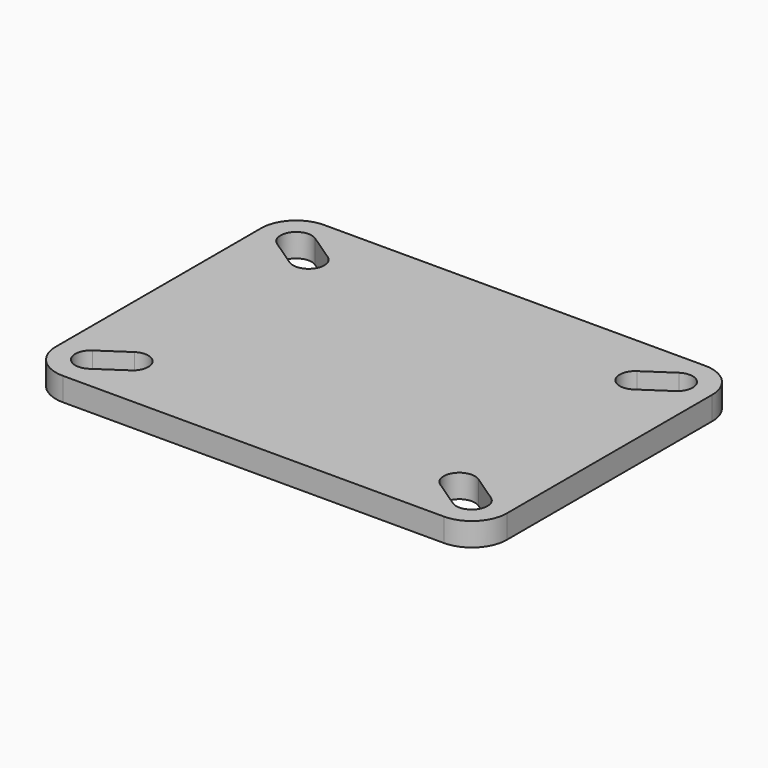
from build123d import *

# Parameters (mm, degrees)
F1_DEPTH = 9.525


with BuildPart() as f1:
    # F0 (on Top) → F1 (new body)
    with BuildSketch(Plane.XY):
        with BuildLine():
            Line((-77.7875, -66.675), (77.7875, -66.675))
            ThreePointArc((77.7875, -66.675), (87.890288, -62.490288), (92.075, -52.3875))
            Line((92.075, -52.3875), (92.075, 52.3875))
            ThreePointArc((92.075, 52.3875), (87.890288, 62.490288), (77.7875, 66.675))
            Line((77.7875, 66.675), (-77.7875, 66.675))
            ThreePointArc((-77.7875, 66.675), (-87.890288, 62.490288), (-92.075, 52.3875))
            Line((-92.075, 52.3875), (-92.075, -52.3875))
            ThreePointArc((-92.075, -52.3875), (-87.890288, -62.490288), (-77.7875, -66.675))
        make_face()
        with BuildLine():
            ThreePointArc((-74.240388, -57.654424), (-83.054424, -55.934612), (-81.334612, -47.120576))
            Line((-81.334612, -47.120576), (-70.222112, -39.636647))
            ThreePointArc((-70.222112, -39.636647), (-61.408076, -41.356459), (-63.127888, -50.170496))
            Line((-63.127888, -50.170496), (-74.240388, -57.654424))
        make_face(mode=Mode.SUBTRACT)
        with BuildLine():
            ThreePointArc((81.334612, -47.120576), (83.054424, -55.934612), (74.240388, -57.654424))
            Line((74.240388, -57.654424), (63.127888, -50.170496))
            ThreePointArc((63.127888, -50.170496), (61.408076, -41.356459), (70.222112, -39.636647))
            Line((70.222112, -39.636647), (81.334612, -47.120576))
        make_face(mode=Mode.SUBTRACT)
        with BuildLine():
            ThreePointArc((-81.334612, 47.120576), (-83.054424, 55.934612), (-74.240388, 57.654424))
            Line((-74.240388, 57.654424), (-63.127888, 50.170496))
            ThreePointArc((-63.127888, 50.170496), (-61.408076, 41.356459), (-70.222112, 39.636647))
            Line((-70.222112, 39.636647), (-81.334612, 47.120576))
        make_face(mode=Mode.SUBTRACT)
        with BuildLine():
            ThreePointArc((74.240388, 57.654424), (83.054424, 55.934612), (81.334612, 47.120576))
            Line((81.334612, 47.120576), (70.222112, 39.636647))
            ThreePointArc((70.222112, 39.636647), (61.408076, 41.356459), (63.127888, 50.170496))
            Line((63.127888, 50.170496), (74.240388, 57.654424))
        make_face(mode=Mode.SUBTRACT)
    extrude(amount=-F1_DEPTH)


solid = f1.part
